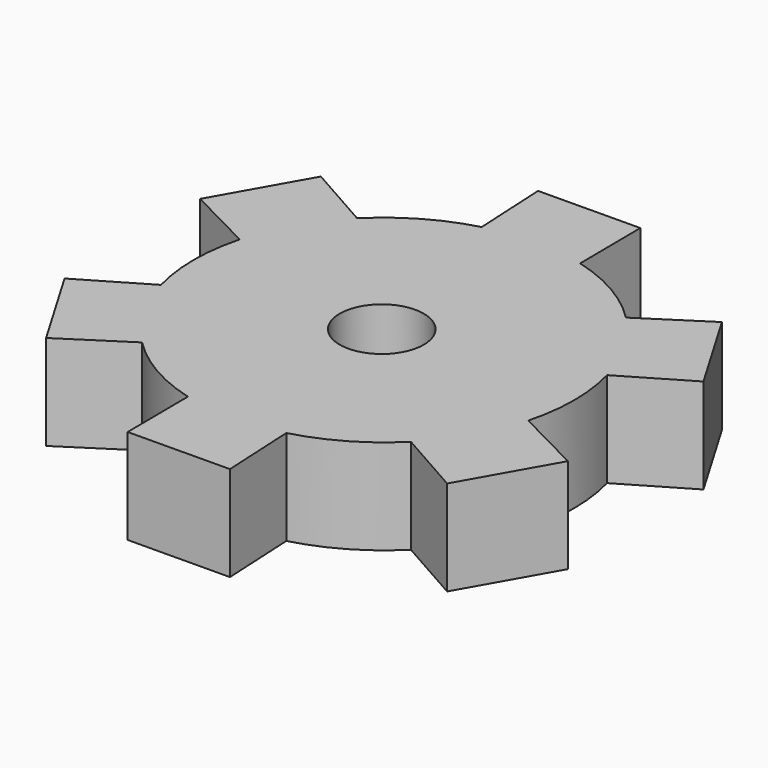
from build123d import *

# Parameters (mm, degrees)
F0_R     = 25.4
F1_DEPTH = 6.35
F3_DEPTH = 12.7
F5_COUNT = 6
F6_R     = 5.616515
F7_DEPTH = 12.7


with BuildPart() as f1:
    # F0 (on Top) → F1 (new body, symmetric)
    with BuildSketch(Plane.XY):
        Circle(F0_R)
    extrude(amount=F1_DEPTH, both=True)

    # F2 (on face) → F3 (join)
    with BuildSketch(Plane(origin=(0, 0, -6.35), x_dir=(1, 0, 0), z_dir=(0, 0, -1))):
        with BuildLine():
            Line((-6.574004, 24.534516), (0, 24.477616))
            Line((0, 24.477616), (0, 25.4))
            ThreePointArc((0, 25.4), (-3.315365, 25.182699), (-6.574004, 24.534516))
        make_face()
        with BuildLine():
            Line((0, 25.4), (0, 24.477616))
            Line((0, 24.477616), (6.543582, 24.420979))
            Line((6.543582, 24.420979), (6.574004, 24.534516))
            ThreePointArc((6.574004, 24.534516), (3.315365, 25.182699), (0, 25.4))
        make_face()
        with BuildLine():
            Line((-6.574004, 24.534516), (0, 24.477616))
            Line((0, 24.477616), (0, 25.4))
            ThreePointArc((0, 25.4), (-3.315365, 25.182699), (-6.574004, 24.534516))
        make_face()
        with BuildLine():
            Line((0, 25.4), (0, 24.477616))
            Line((0, 24.477616), (6.543582, 24.420979))
            Line((6.543582, 24.420979), (6.574004, 24.534516))
            ThreePointArc((6.574004, 24.534516), (3.315365, 25.182699), (0, 25.4))
        make_face()
        with BuildLine():
            Line((-6.486069, 34.694135), (-6.574004, 24.534516))
            ThreePointArc((-6.574004, 24.534516), (-3.315365, 25.182699), (0, 25.4))
            ThreePointArc((0, 25.4), (3.315365, 25.182699), (6.574004, 24.534516))
            Line((6.574004, 24.534516), (7.085632, 34.576668))
            Line((7.085632, 34.576668), (-6.486069, 34.694135))
        make_face()
    extrude(amount=-F3_DEPTH)

    # F5: F1 ×6 about axis
    f5_axis = Axis((0, 0, 22.241494), (0, 0, 1))


with BuildPart() as f1_1:
    add(f1.part)
    for i in range(1, F5_COUNT):
        add(f1.part.rotate(f5_axis, i * 360 / F5_COUNT))

    # F6 (on face) → F7 (cut)
    with BuildSketch(Plane.XY.offset(6.35)):
        with Locations((-0.299782, 0)):
            Circle(F6_R)
    extrude(amount=-F7_DEPTH, mode=Mode.SUBTRACT)


solid = f1_1.part
